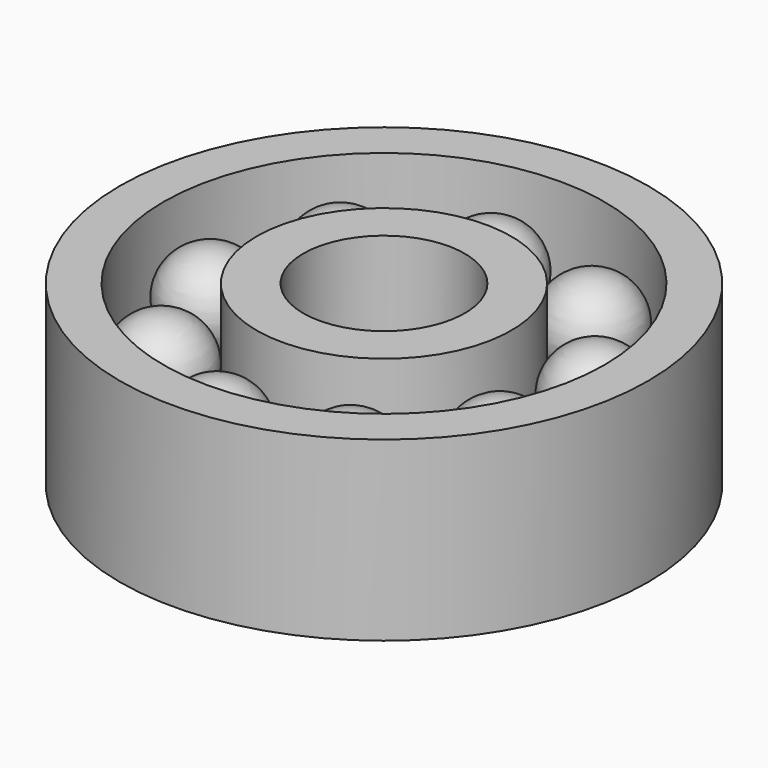
from build123d import *

# Parameters (mm, degrees)
F0_W     = 3.653424792
F0_H     = 9.2553421855
F4_COUNT = 9


with BuildPart() as f1:
    # F0 (on Front) → F1 (revolve)
    with BuildSketch(Plane.XZ):
        Polygon((-17.2928776592, 9.2553421855), (-20.7027401775, 9.2553421855), (-20.7027401775, -4.6276710927), (-17.2928776592, -4.6276710927), (-17.2928776592, 0), align=None)
        Polygon((-9.9860271439, 0), (-17.2928776592, 0), (-17.2928776592, -4.6276710927), (-6.3326023519, -4.6276710927), (-6.3326023519, 0), align=None)
        with Locations((-8.1593147479, 4.6276710927)):
            Rectangle(F0_W, F0_H)
    revolve(axis=Axis((0, 0, 0.7306858897), (0, 0, -1)))


with BuildPart() as f3:
    # F2 (on Front) → F3 (revolve)
    with BuildSketch(Plane.XZ):
        with BuildLine():
            Line((-13.6105483398, 0.3157302563), (-13.6663848534, 7.3790797032))
            ThreePointArc((-13.6663848534, 7.3790797032), (-17.2947517826, 3.8185016642), (-13.6105483398, 0.3157302563))
        make_face()
    revolve(axis=Axis((-13.6384665966, 0, 3.8474049798), (0.0079048573, 0, -0.9999687561)))


with BuildPart() as f4_1:
    # F4: instance of F3
    add(f3.part.rotate(Axis((0, 0, 9.2553421855), (0, 0, -1)), 1 * 360 / F4_COUNT))


with BuildPart() as f4_2:
    # F4: instance of F3
    add(f3.part.rotate(Axis((0, 0, 9.2553421855), (0, 0, -1)), 2 * 360 / F4_COUNT))


with BuildPart() as f4_3:
    # F4: instance of F3
    add(f3.part.rotate(Axis((0, 0, 9.2553421855), (0, 0, -1)), 3 * 360 / F4_COUNT))


with BuildPart() as f4_4:
    # F4: instance of F3
    add(f3.part.rotate(Axis((0, 0, 9.2553421855), (0, 0, -1)), 4 * 360 / F4_COUNT))


with BuildPart() as f4_5:
    # F4: instance of F3
    add(f3.part.rotate(Axis((0, 0, 9.2553421855), (0, 0, -1)), 5 * 360 / F4_COUNT))


with BuildPart() as f4_6:
    # F4: instance of F3
    add(f3.part.rotate(Axis((0, 0, 9.2553421855), (0, 0, -1)), 6 * 360 / F4_COUNT))


with BuildPart() as f4_7:
    # F4: instance of F3
    add(f3.part.rotate(Axis((0, 0, 9.2553421855), (0, 0, -1)), 7 * 360 / F4_COUNT))


with BuildPart() as f4_8:
    # F4: instance of F3
    add(f3.part.rotate(Axis((0, 0, 9.2553421855), (0, 0, -1)), 8 * 360 / F4_COUNT))


solid = Compound([f1.part, f3.part, f4_1.part, f4_2.part, f4_3.part, f4_4.part, f4_5.part, f4_6.part, f4_7.part, f4_8.part])
